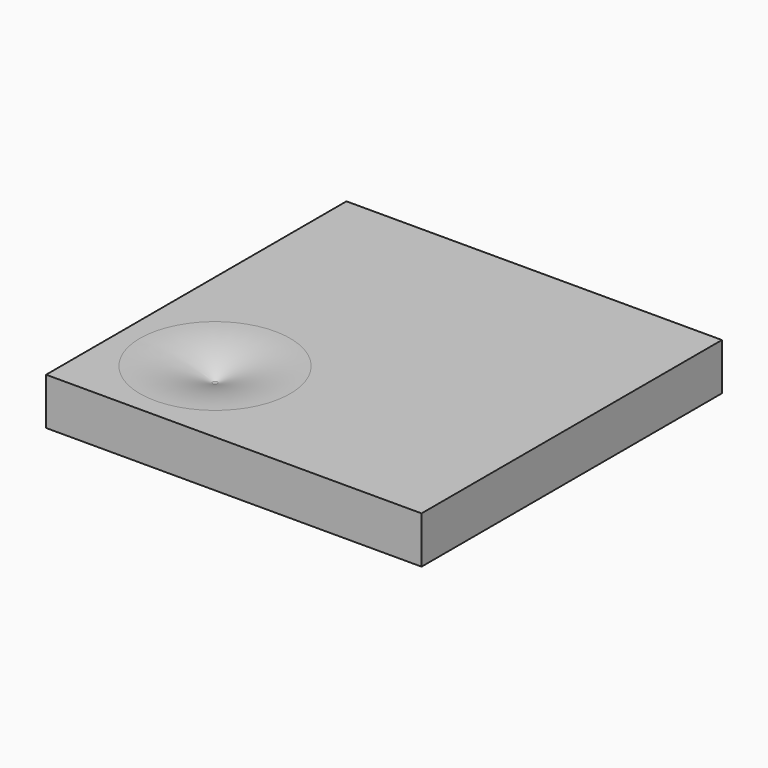
from build123d import *

# Parameters (mm, degrees)
F0_W     = 400
F0_H     = 50
F1_DEPTH = 200


with BuildPart() as f1:
    # F0 (on Front) → F1 (new body, symmetric)
    with BuildSketch(Plane.XZ):
        Rectangle(F0_W, F0_H)
    extrude(amount=F1_DEPTH, both=True)

    # F3 (on offset) → F4 (revolve, cut)
    with BuildSketch(Plane.XZ.offset(100)):
        with BuildLine():
            Line((-100, 9.376249), (-100, 25))
            Line((-100, 25), (-180, 25))
            ThreePointArc((-180, 25), (-140.473109, 21.055158), (-102.505492, 9.376249))
            Line((-102.505492, 9.376249), (-100, 9.376249))
        make_face()
    revolve(axis=Axis((-100, -100, -3.617227), (0, 0, -1)), mode=Mode.SUBTRACT)


solid = f1.part
